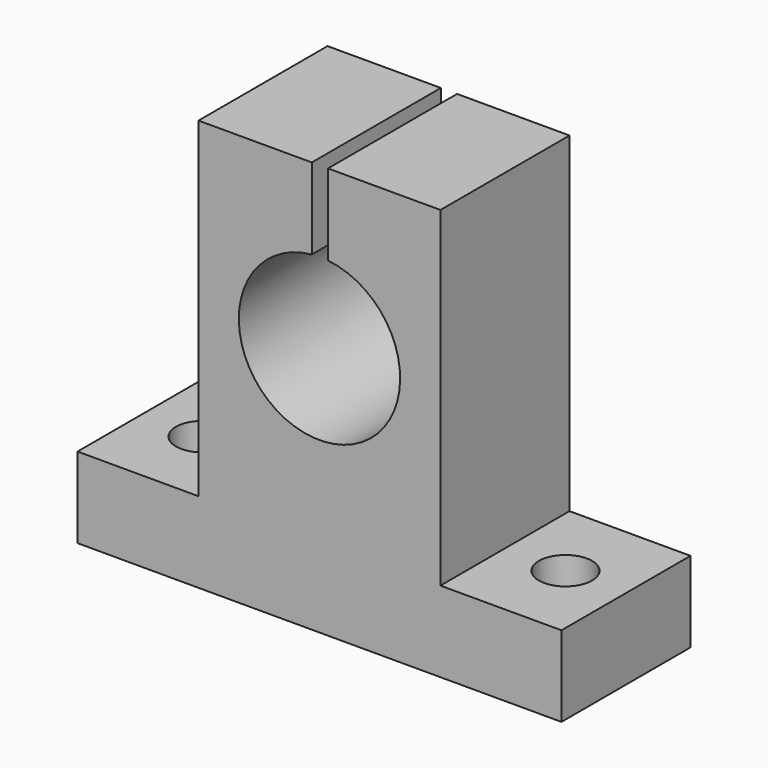
from build123d import *

# Parameters (mm, degrees)
F1_DEPTH = 20
F3_D     = 6.6
F4_D     = 6.6


with BuildPart() as f1:
    # F0 (on Front) → F1 (new body)
    with BuildSketch(Plane.XZ):
        with BuildLine():
            Line((-30, -25.5), (30, -25.5))
            Line((30, -25.5), (30, -15.5))
            Line((30, -15.5), (15, -15.5))
            Line((15, -15.5), (15, 25.5))
            Line((15, 25.5), (1.057532, 25.5))
            Line((1.057532, 25.5), (1.057532, 15.443924))
            ThreePointArc((1.057532, 15.443924), (-0.053951, -4.499854), (-0.950175, 15.454756))
            Line((-0.950175, 15.454756), (-0.950175, 25.5))
            Line((-0.950175, 25.5), (-15, 25.5))
            Line((-15, 25.5), (-15, -10.487244))
            Line((-15, -10.487244), (-15, -15.5))
            Line((-15, -15.5), (-30, -15.5))
            Line((-30, -15.5), (-30, -25.5))
        make_face()
    extrude(amount=F1_DEPTH)

    # F3 (through all)
    with Locations(Plane(origin=(0, 0, -25.5), x_dir=(1, 0, 0), z_dir=(0, 0, -1))):
        with Locations((-22.5, 10)):
            Hole(F3_D / 2)

    # F4 (through all)
    with Locations(Plane(origin=(0, 0, -25.5), x_dir=(1, 0, 0), z_dir=(0, 0, -1))):
        with Locations((22.5, 10)):
            Hole(F4_D / 2)


solid = f1.part
